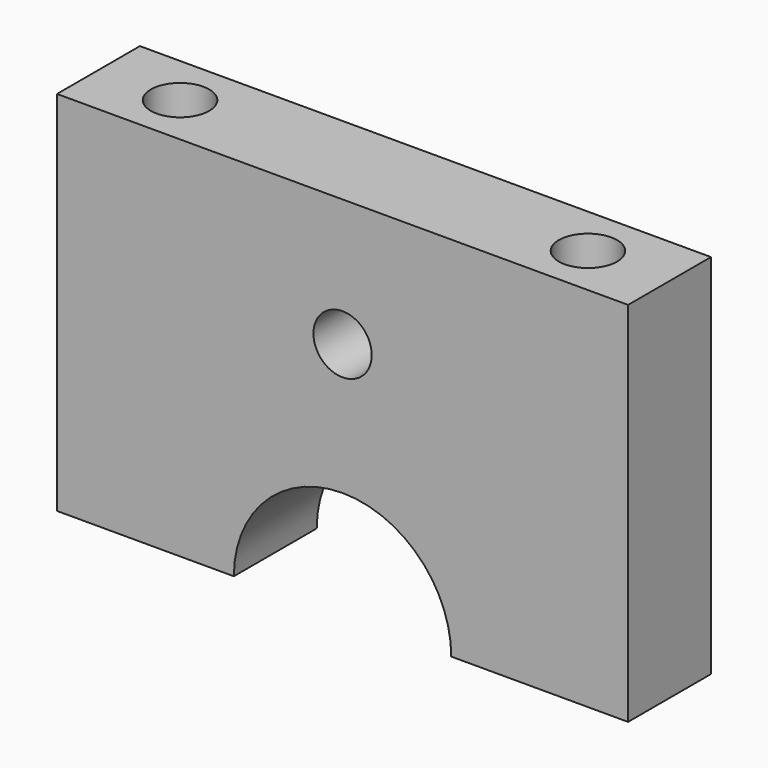
from build123d import *

# Parameters (mm, degrees)
SKETCH022_R  = 3.571875
PAD022_DEPTH = 55
SKETCH021_R  = 3.571875
PAD021_DEPTH = 55
SKETCH020_R  = 3.571875
PAD020_DEPTH = 30
PAD002_DEPTH = 12.7


with BuildPart() as body022:
    # Sketch022 → Pad022 (new body)
    with BuildSketch(Plane.XY):
        Circle(SKETCH022_R)
    extrude(amount=PAD022_DEPTH)


with BuildPart() as body022_1:
    # Body022 placement: moved
    add(body022.part.moved(Location((150, -6.35, 115))))


with BuildPart() as body021:
    # Sketch021 → Pad021 (new body)
    with BuildSketch(Plane.XY):
        Circle(SKETCH021_R)
    extrude(amount=PAD021_DEPTH)


with BuildPart() as body021_1:
    # Body021 placement: moved
    add(body021.part.moved(Location((100, -6.35, 115))))


with BuildPart() as body020:
    # Sketch020 → Pad020 (new body)
    with BuildSketch(Plane.XZ):
        Circle(SKETCH020_R)
    extrude(amount=PAD020_DEPTH)


with BuildPart() as body020_1:
    # Body020 placement: moved
    add(body020.part.moved(Location((25, 2, 149.369))))


with BuildPart() as braceupper:
    # Sketch002 → Pad002 (new body)
    with BuildSketch(Plane.XZ):
        with BuildLine():
            Line((-20, 110), (-20, 155))
            Line((-20, 155), (50, 155))
            Line((50, 155), (50, 110))
            Line((50, 110), (28.325, 110))
            ThreePointArc((28.325, 110), (15, 123.324967), (1.675, 110))
            Line((-20, 110), (1.675, 110))
        make_face()
    extrude(amount=PAD002_DEPTH)


with BuildPart() as braceupper_1:
    # Body002 placement: moved
    add(braceupper.part.moved(Location((10, 0, 10))))

    # Cut013: cut Body020
    add(body020_1.part, mode=Mode.SUBTRACT)


with BuildPart() as braceupper_2:
    # Cut013 placement: moved
    add(braceupper_1.part.moved(Location((100, 0, 0))))

    # Cut014: cut Body021
    add(body021_1.part, mode=Mode.SUBTRACT)

    # Cut015: cut Body022
    add(body022_1.part, mode=Mode.SUBTRACT)


with BuildPart() as braceupper_3:
    # Cut015 placement: moved
    add(braceupper_2.part.moved(Location((-100, 0, 0))))


solid = braceupper_3.part
